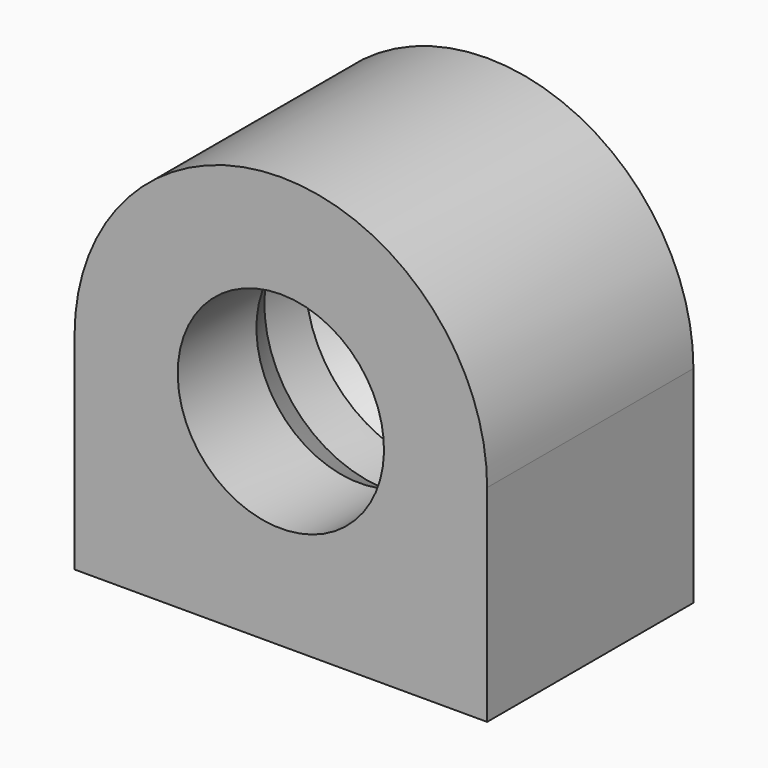
from build123d import *

# Parameters (mm, degrees)
F2_DEPTH = 12.5


with BuildPart() as f2:
    # F1 (on Front) → F2 (new body, symmetric)
    with BuildSketch(Plane.XZ):
        with BuildLine():
            Line((-20, 0), (-20, -20))
            Line((-20, -20), (20, -20))
            Line((20, -20), (20, 0))
            ThreePointArc((20, 0), (0, 20), (-20, 0))
        make_face()
    extrude(amount=F2_DEPTH, both=True)

    # F4 (on Right) → F5 (revolve, cut)
    with BuildSketch(Plane.YZ):
        Polygon((12.5, 0), (12.5, 10), (7.5, 10), (5.5, 12), (0.5, 12), (-2.9641016151, 10), (-12.5, 10), (-12.5, 0), align=None)
    revolve(axis=Axis((0, -12.4621223658, 0), (0, 1, 0)), mode=Mode.SUBTRACT)


solid = f2.part
